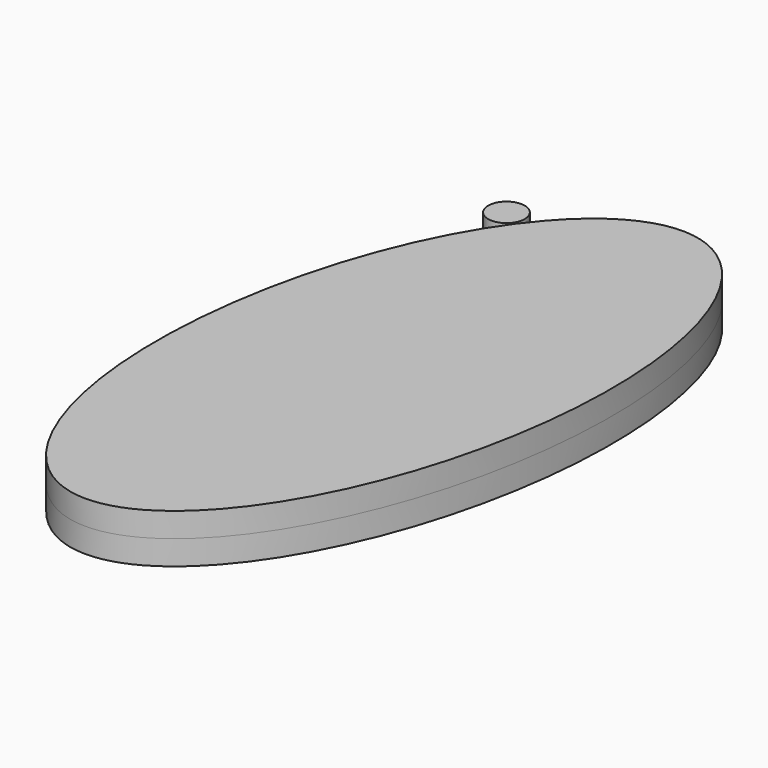
from build123d import *

# Parameters (mm, degrees)
F0_R     = 9.48288
F1_DEPTH = 12.7


with BuildPart() as f1:
    # F0 (on Top) → F1 (new body, symmetric)
    with BuildSketch(Plane.XY):
        with Locations((-20.855958, 37.162896)):
            Circle(F0_R)
        with BuildLine():
            add(Edge.make_bspline(
                [(51.516771, 68.531118), (-88.11438, 91.545391), (-59.570918, -170.36604), (-31.027457, -432.277471), (80.060233, -193.380313), (191.147922, 45.516845), (51.516771, 68.531118)],
                knots=[0, 0, 0, 2.094395, 2.094395, 4.18879, 4.18879, 6.283185, 6.283185, 6.283185], degree=2, weights=[1, 0.5, 1, 0.5, 1, 0.5, 1]))
        make_face()
    extrude(amount=F1_DEPTH, both=True)


solid = f1.part
